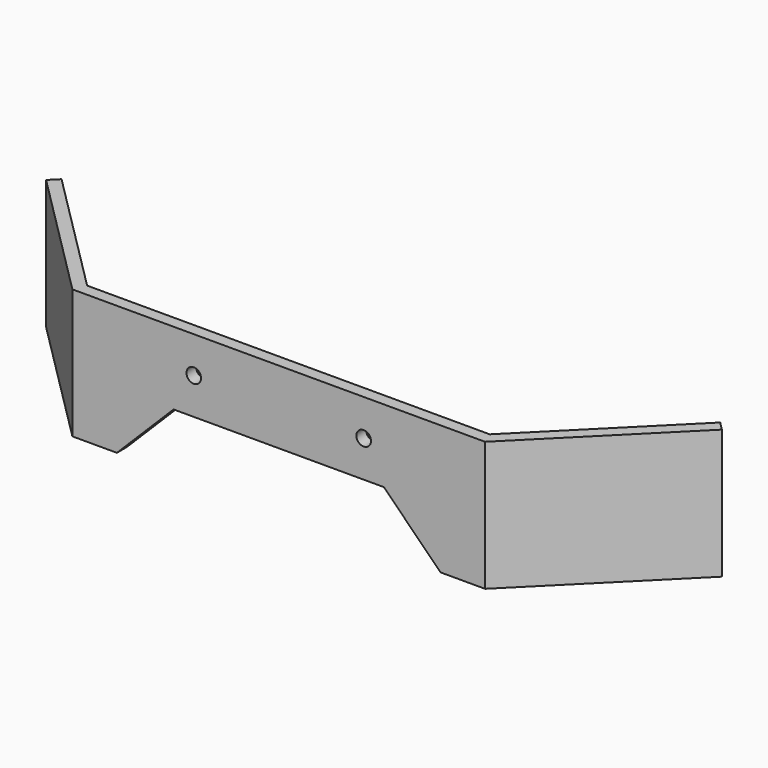
from build123d import *

# Parameters (mm, degrees)
F1_DEPTH = 16
F2_R     = 0.9
F3_DEPTH = 17.325116


with BuildPart() as f1:
    # F0 (on Top) → F1 (new body)
    with BuildSketch(Plane.XY):
        Polygon((-25.5, 0), (0, 0), (25.5, 0), (41.763456, 16.263456), (40.702796, 17.324116), (24.87868, 1.5), (0, 1.5), (-24.87868, 1.5), (-40.702796, 17.324116), (-41.763456, 16.263456), align=None)
    extrude(amount=F1_DEPTH)

    # F2 (on face) → F3 (cut, through all)
    with BuildSketch(Plane.XZ):
        with Locations((-10.5, 11.5)):
            Circle(F2_R)
        with Locations((10.5, 11.5)):
            Circle(F2_R)
        Polygon((-13, 7), (-20, 0), (20, 0), (13, 7), align=None)
    extrude(amount=-F3_DEPTH, mode=Mode.SUBTRACT)


solid = f1.part
